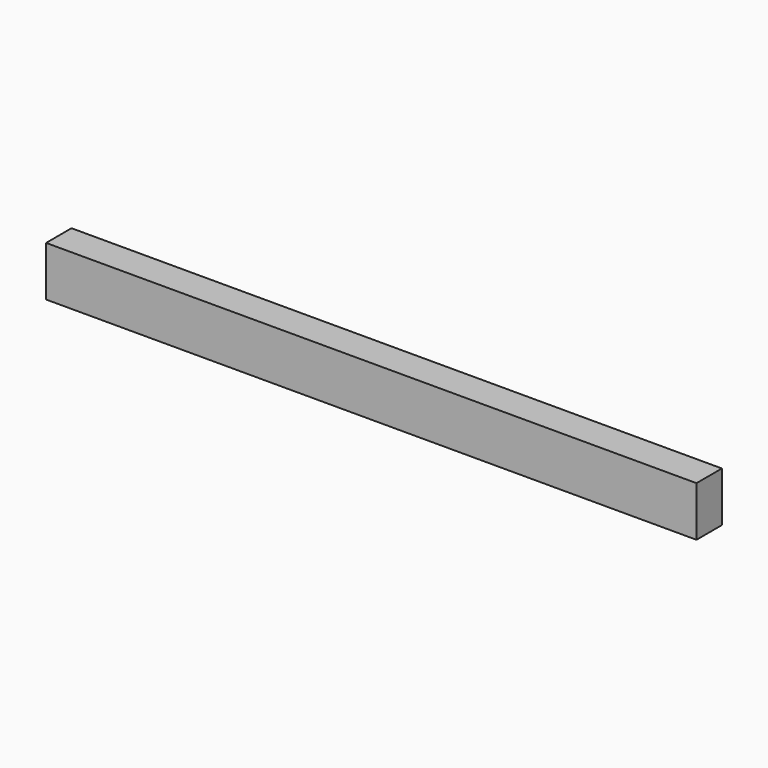
from build123d import *

# Parameters (mm, degrees)
F0_W     = 44
F0_H     = 69
F1_DEPTH = 900
F3_DEPTH = 40


with BuildPart() as f1:
    # F0 (on Right) → F1 (new body)
    with BuildSketch(Plane.YZ):
        with Locations((1.517141, 34.5)):
            Rectangle(F0_W, F0_H)
    extrude(amount=F1_DEPTH)

    # F2 (on face) → F3 (cut)
    with BuildSketch(Plane(origin=(0, 0, 0), x_dir=(1, 0, 0), z_dir=(0, 0, -1))):
        with BuildLine():
            ThreePointArc((885, -11.517141), (895, -1.517141), (885, 8.482859))
            Line((885, 8.482859), (846, 8.482859))
            ThreePointArc((846, 8.482859), (836, -1.517141), (846, -11.517141))
            Line((846, -11.517141), (885, -11.517141))
        make_face()
    extrude(amount=-F3_DEPTH, mode=Mode.SUBTRACT)


solid = f1.part
